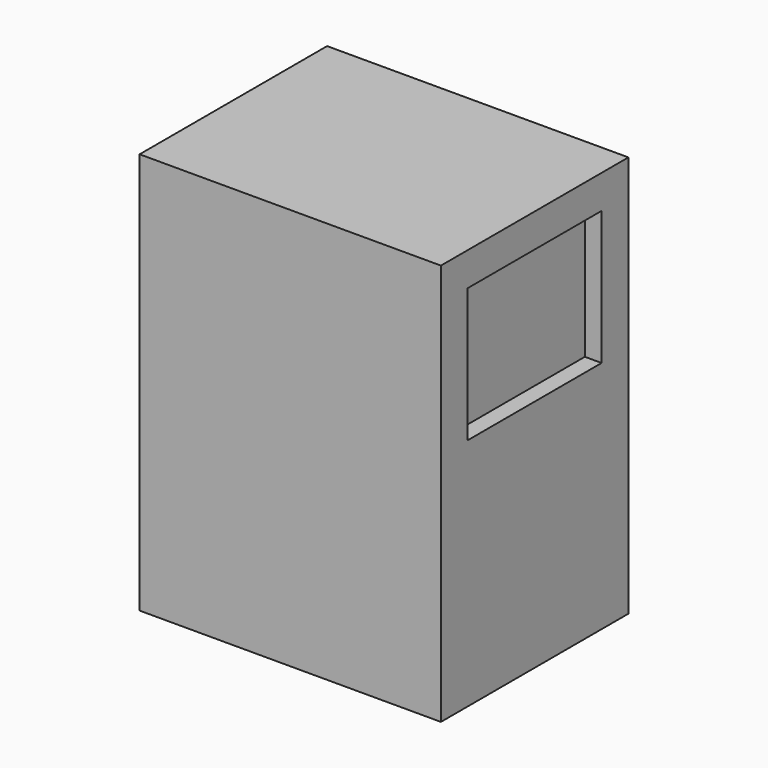
from build123d import *

# Parameters (mm, degrees)
F0_W     = 44.45
F0_H     = 76.2
F1_DEPTH = 57.15
F2_W     = 31.75
F2_H     = 25.4
F3_DEPTH = 3.175
F4_W     = 31.75
F4_H     = 25.4
F5_DEPTH = 3.175


with BuildPart() as f1:
    # F0 (on Right) → F1 (new body)
    with BuildSketch(Plane.YZ):
        with Locations((22.225, -38.1)):
            Rectangle(F0_W, F0_H)
    extrude(amount=F1_DEPTH)

    # F2 (on face) → F3 (cut)
    with BuildSketch(Plane.YZ.offset(57.15)):
        with Locations((22.225, -19.05)):
            Rectangle(F2_W, F2_H)
    extrude(amount=-F3_DEPTH, mode=Mode.SUBTRACT)

    # F4 (on face) → F5 (cut)
    with BuildSketch(Plane(origin=(0, 0, 0), x_dir=(0, -1, 0), z_dir=(-1, 0, 0))):
        with Locations((-22.225, -19.05)):
            Rectangle(F4_W, F4_H)
    extrude(amount=-F5_DEPTH, mode=Mode.SUBTRACT)


solid = f1.part
